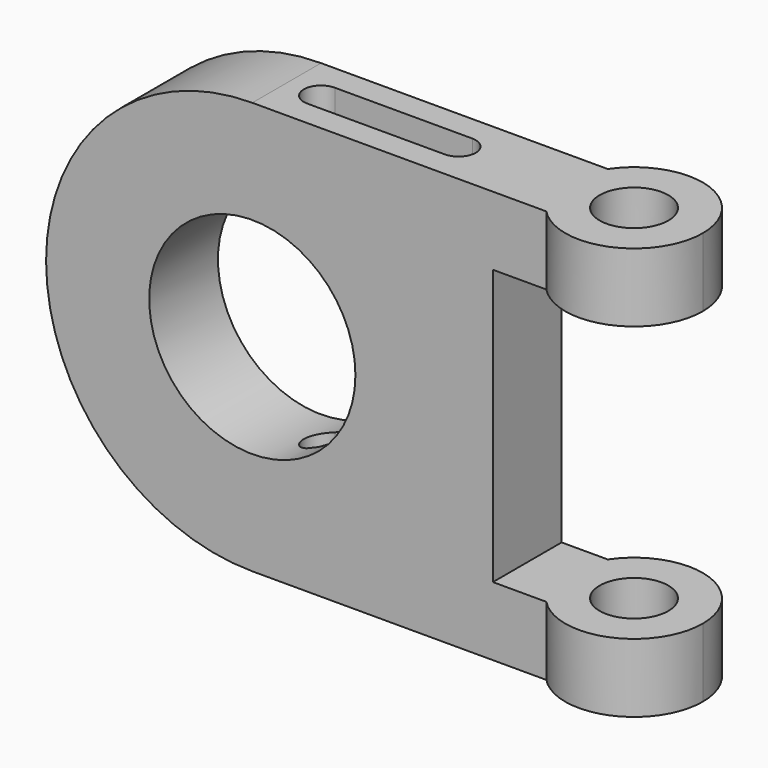
from build123d import *

# Parameters (mm, degrees)
F0_R     = 12.7
F1_DEPTH = 152.4
F2_R     = 38.1
F3_DEPTH = 42.949663
F5_DEPTH = 152.401
F6_W     = 157.67442
F6_H     = 101.6
F7_DEPTH = 838.2


with BuildPart() as f1:
    # F0 (on Top) → F1 (new body)
    with BuildSketch(Plane.XY):
        with BuildLine():
            ThreePointArc((87.912252, -17.548663), (115.728859, -23.575235), (131.675379, 0))
            ThreePointArc((131.675379, 0), (113.700373, 24.290522), (85.216366, 14.201337))
            ThreePointArc((85.216366, 14.201337), (80.96645, -2.148976), (87.912252, -17.548663))
        make_face()
        with Locations((106.275379, 0)):
            Circle(F0_R, mode=Mode.SUBTRACT)
        with BuildLine():
            ThreePointArc((87.912252, -17.548663), (80.96645, -2.148976), (85.216366, 14.201337))
            Line((85.216366, 14.201337), (-96.924621, 14.201337))
            Line((-96.924621, 14.201337), (-96.924621, -17.548663))
            Line((-96.924621, -17.548663), (87.912252, -17.548663))
        make_face()
    extrude(amount=F1_DEPTH)

    # F2 (on face) → F3 (cut, through all)
    with BuildSketch(Plane.XZ.offset(17.548663)):
        with BuildLine():
            ThreePointArc((-96.924621, 76.2), (-74.606158, 130.081537), (-20.724621, 152.4))
            Line((-20.724621, 152.4), (-96.924621, 152.4))
            Line((-96.924621, 152.4), (-96.924621, 76.2))
        make_face()
        with BuildLine():
            ThreePointArc((-20.724621, 0), (-74.606158, 22.318463), (-96.924621, 76.2))
            Line((-96.924621, 76.2), (-96.924621, 0))
            Line((-96.924621, 0), (-20.724621, 0))
        make_face()
        Polygon((-96.924621, 0), (-96.924621, 76.2), (-96.924621, 152.4), (-108.673256, 152.4), (-108.673256, 0), align=None)
        with Locations((-20.724621, 76.2)):
            Circle(F2_R)
    extrude(amount=-F3_DEPTH, mode=Mode.SUBTRACT)

    # F4 (on face) → F5 (cut, through all)
    with BuildSketch(Plane.XY.offset(152.4)):
        with BuildLine():
            Line((-8.024621, -8.023663), (42.775379, -8.023663))
            ThreePointArc((42.775379, -8.023663), (49.125379, -1.673663), (42.775379, 4.676337))
            Line((42.775379, 4.676337), (-8.024621, 4.676337))
            ThreePointArc((-8.024621, 4.676337), (-14.374621, -1.673663), (-8.024621, -8.023663))
        make_face()
    extrude(amount=-F5_DEPTH, mode=Mode.SUBTRACT)

    # F6 (on face) → F7 (cut, symmetric)
    with BuildSketch(Plane.XZ.offset(17.548663)):
        with Locations((147.012589, 76.2)):
            Rectangle(F6_W, F6_H)
        with Locations((147.012589, 76.2)):
            Rectangle(F6_W, F6_H)
    extrude(amount=F7_DEPTH, both=True, mode=Mode.SUBTRACT)


solid = f1.part
